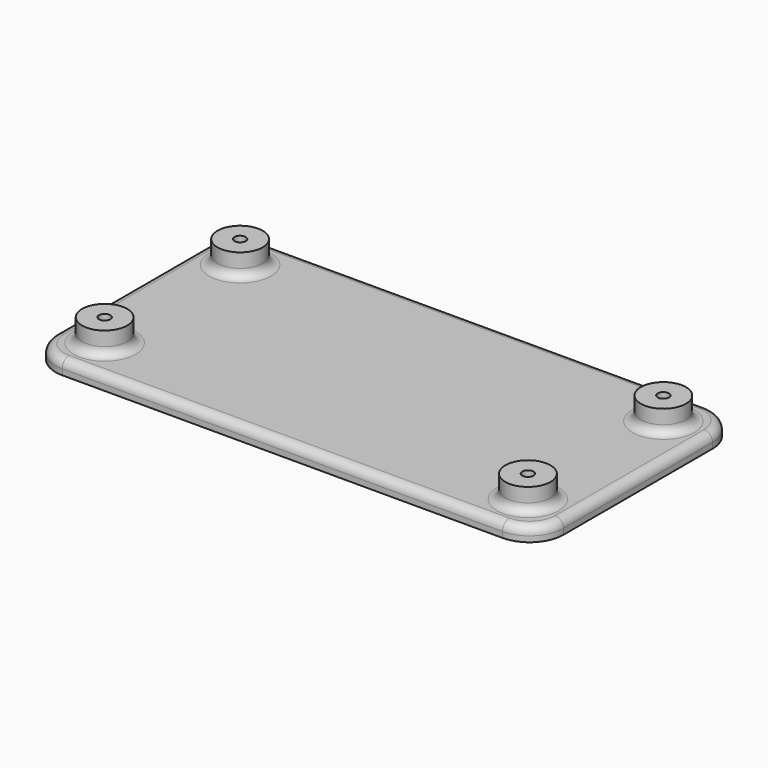
from build123d import *

# Parameters (mm, degrees)
SKETCH001_W  = 90
SKETCH001_H  = 45
PAD_DEPTH    = 2.5
SKETCH_R     = 4
SKETCH_R_2   = 1
PAD001_DEPTH = 6.5
FILLET_R     = 6
FILLET001_R  = 1.5


with BuildPart() as part:
    # Sketch001 → Pad (new body)
    with BuildSketch(Plane.XY):
        Rectangle(SKETCH001_W, SKETCH001_H)
    extrude(amount=PAD_DEPTH)

    # Sketch → Pad001 (join)
    with BuildSketch(Plane.XY):
        with Locations((-37.5, 15)):
            Circle(SKETCH_R)
        with Locations((-37.5, 15)):
            Circle(SKETCH_R_2, mode=Mode.SUBTRACT)
        with Locations((37.5, 15)):
            Circle(SKETCH_R)
        with Locations((37.5, 15)):
            Circle(SKETCH_R_2, mode=Mode.SUBTRACT)
        with Locations((37.5, -15)):
            Circle(SKETCH_R)
        with Locations((37.5, -15)):
            Circle(SKETCH_R_2, mode=Mode.SUBTRACT)
        with Locations((-37.5, -15)):
            Circle(SKETCH_R)
        with Locations((-37.5, -15)):
            Circle(SKETCH_R_2, mode=Mode.SUBTRACT)
    extrude(amount=PAD001_DEPTH)

    # Fillet
    fillet_edges = [part.edges().sort_by_distance(p)[0] for p in [
        (45, -22.5, 1.25),
        (45, 22.5, 1.25),
        (-45, 22.5, 1.25),
        (-45, -22.5, 1.25),
    ]]
    fillet(fillet_edges, radius=FILLET_R)

    # Fillet001
    fillet001_edges = [part.edges().sort_by_distance(p)[0] for p in [
        (-45, 0, 2.5),
        (-43.242641, 20.742641, 2.5),
        (-43.242641, -20.742641, 2.5),
        (0, 22.5, 2.5),
        (0, -22.5, 2.5),
        (43.242641, 20.742641, 2.5),
        (43.242641, -20.742641, 2.5),
        (45, 0, 2.5),
        (-41.5, -15, 2.5),
        (33.5, -15, 2.5),
        (-41.5, 15, 2.5),
        (33.5, 15, 2.5),
    ]]
    fillet(fillet001_edges, radius=FILLET001_R)


solid = part.part
